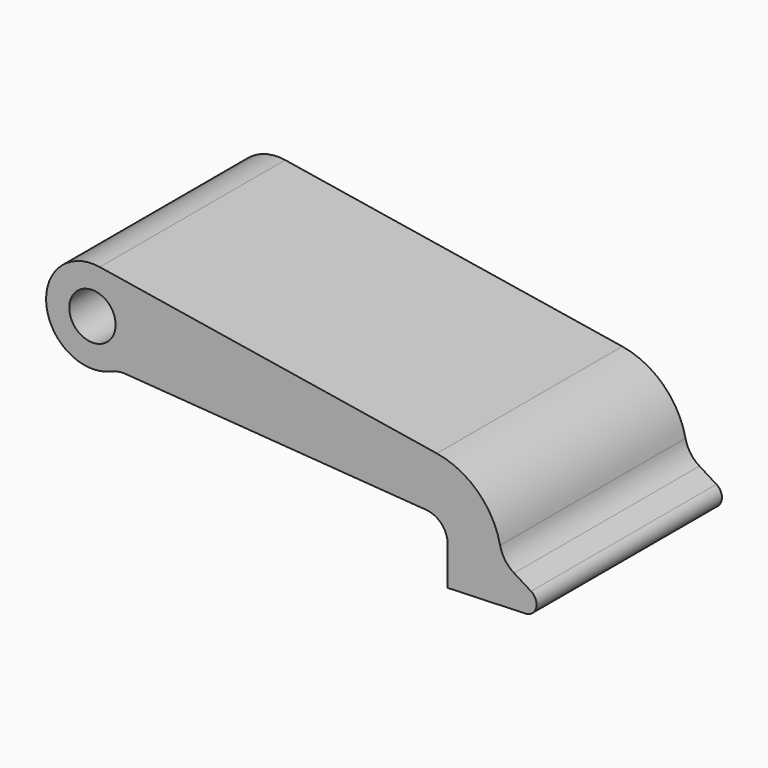
from build123d import *

# Parameters (mm, degrees)
F0_R     = 3
F1_DEPTH = 30


with BuildPart() as f1:
    # F0 (on Front) → F1 (new body)
    with BuildSketch(Plane.XZ):
        with BuildLine():
            ThreePointArc((43.217693, -8.007909), (45.196939, -8.957095), (46, -11))
            Line((46, -11), (46, -16))
            Line((46, -16), (56.052349, -15.648964))
            ThreePointArc((56.052349, -15.648964), (57.449661, -14.535215), (56.789796, -12.874644))
            Line((56.789796, -12.874644), (54.593083, -11.514144))
            ThreePointArc((54.593083, -11.514144), (53.425144, -10.411458), (52.785147, -8.938228))
            ThreePointArc((52.785147, -8.938228), (49.901271, -3.763118), (44.595151, -1.128045))
            Line((44.595151, -1.128045), (0.957091, 5.923173))
            ThreePointArc((0.957091, 5.923173), (-5.952692, -0.75197), (2.4, -5.499091))
            ThreePointArc((2.4, -5.499091), (3.325461, -5.222437), (4.290258, -5.175696))
            Line((4.290258, -5.175696), (43.217693, -8.007909))
        make_face()
        Circle(F0_R, mode=Mode.SUBTRACT)
    extrude(amount=F1_DEPTH)


solid = f1.part
